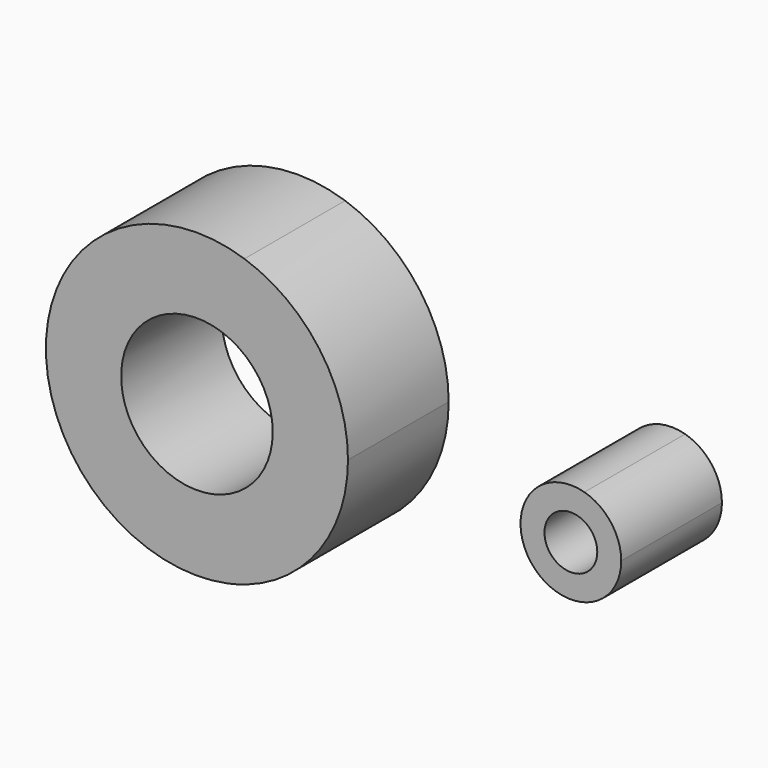
from build123d import *

# Parameters (mm, degrees)
F0_R     = 15.053847
F0_R_2   = 5.242883
F1_DEPTH = 25


with BuildPart() as f1:
    # F0 (on Front) → F1 (new body)
    with BuildSketch(Plane.XZ):
        with BuildLine():
            ThreePointArc((9.950043, -28.301884), (24.479597, -17.342126), (30, 0))
            ThreePointArc((30, 0), (24.321725, 17.56285), (9.436419, 28.477254))
            ThreePointArc((9.436419, 28.477254), (-29.950765, 1.718053), (6.118181, -29.369506))
            Line((6.118181, -29.369506), (9.950043, -28.301884))
        make_face()
        Circle(F0_R, mode=Mode.SUBTRACT)
        with BuildLine():
            ThreePointArc((84.271339, 0), (82.236329, 6.046398), (76.959552, 9.631901))
            ThreePointArc((76.959552, 9.631901), (66.306349, -6.046398), (84.271339, 0))
        make_face()
        with Locations((74.271339, 0)):
            Circle(F0_R_2, mode=Mode.SUBTRACT)
        with BuildLine():
            ThreePointArc((6.118181, -29.369506), (8.051827, -28.899275), (9.950043, -28.301884))
            Line((9.950043, -28.301884), (6.118181, -29.369506))
        make_face()
    extrude(amount=F1_DEPTH)


solid = f1.part
